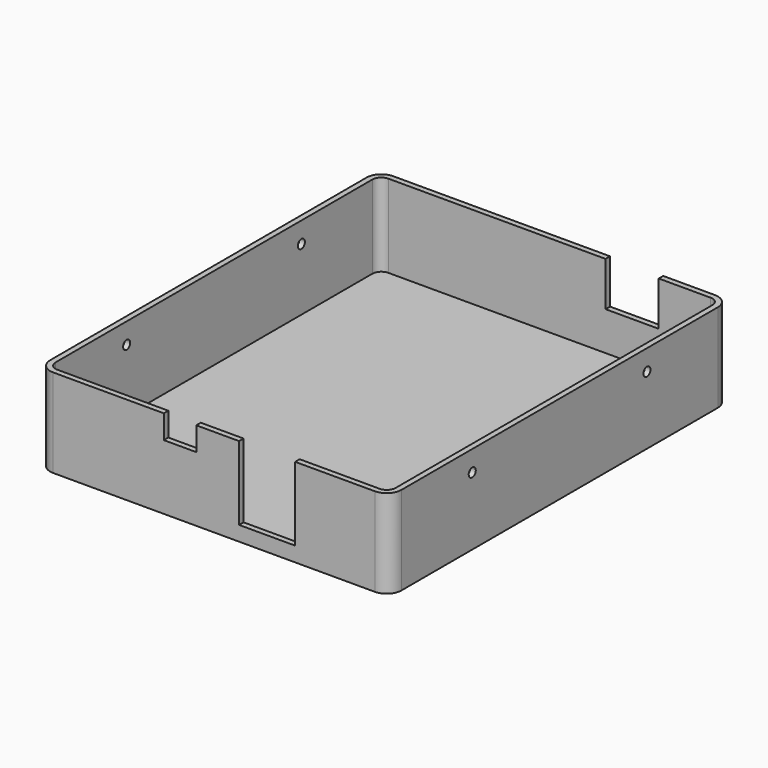
from build123d import *

# Parameters (mm, degrees)
F0_W      = 119
F0_H      = 144
F1_DEPTH  = 30
F2_T      = -1.9
F3_R      = 5
F4_R      = 3
F5_R      = 1.5
F6_DEPTH  = 119.001
F7_W      = 19
F7_H      = 25
F7_W_2    = 11
F7_H_2    = 8
F8_DEPTH  = 3
F9_W      = 18
F9_H      = 15
F10_DEPTH = 3


with BuildPart() as f1:
    # F0 (on Top) → F1 (new body)
    with BuildSketch(Plane.XY):
        Rectangle(F0_W, F0_H)
    extrude(amount=F1_DEPTH)

    # F2
    f2_openings = [f1.faces().sort_by_distance(p)[0] for p in [
        (0, 0, 30),
    ]]
    offset(amount=F2_T, openings=f2_openings)

    # F3
    f3_edges = [f1.edges().sort_by_distance(p)[0] for p in [
        (-59.5, -72, 15),
        (59.5, -72, 15),
        (59.5, 72, 15),
        (-59.5, 72, 15),
    ]]
    fillet(f3_edges, radius=F3_R)

    # F4
    f4_edges = [f1.edges().sort_by_distance(p)[0] for p in [
        (-57.6, -70.1, 15.95),
        (57.6, -70.1, 15.95),
        (-57.6, 70.1, 15.95),
        (57.6, 70.1, 15.95),
    ]]
    fillet(f4_edges, radius=F4_R)

    # F5 (on face) → F6 (cut, through all)
    with BuildSketch(Plane(origin=(-59.5, 0, 0), x_dir=(0, -1, 0), z_dir=(-1, 0, 0))):
        with Locations((-37, 23)):
            Circle(F5_R)
        with Locations((37, 23)):
            Circle(F5_R)
    extrude(amount=-F6_DEPTH, mode=Mode.SUBTRACT)

    # F7 (on face) → F8 (cut)
    with BuildSketch(Plane.XZ.offset(72)):
        with Locations((18, 17.5)):
            Rectangle(F7_W, F7_H)
        with Locations((-11.5, 26)):
            Rectangle(F7_W_2, F7_H_2)
    extrude(amount=-F8_DEPTH, mode=Mode.SUBTRACT)

    # F9 (on face) → F10 (cut)
    with BuildSketch(Plane(origin=(0, 72, 0), x_dir=(-1, 0, 0), z_dir=(0, 1, 0))):
        with Locations((-28, 22.5)):
            Rectangle(F9_W, F9_H)
    extrude(amount=-F10_DEPTH, mode=Mode.SUBTRACT)


solid = f1.part
